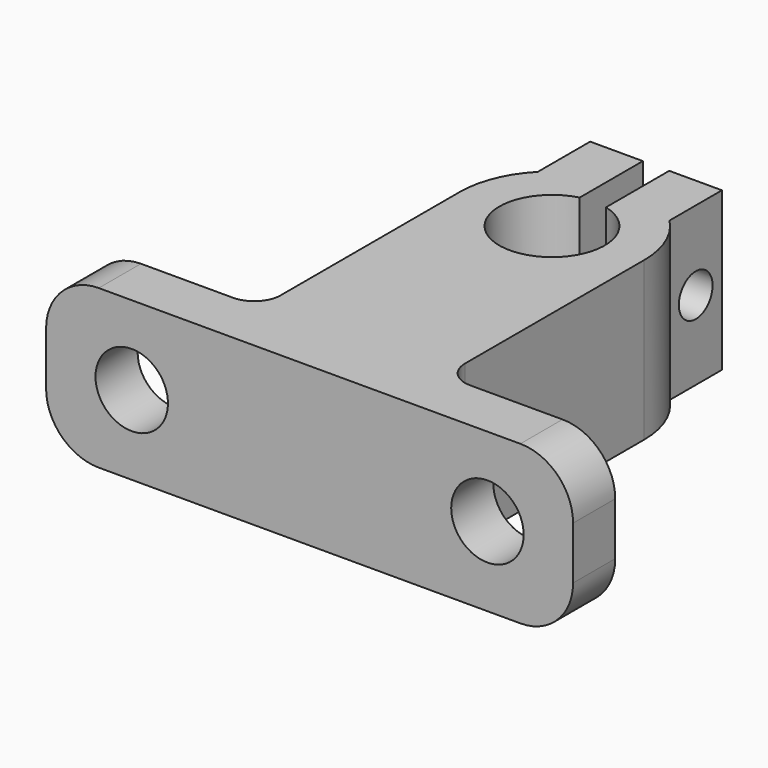
from build123d import *

# Parameters (mm, degrees)
F1_DEPTH = 12
F2_R     = 2.75
F3_DEPTH = 25
F4_R     = 4
F5_R     = 2
F6_R     = 1.6
F7_DEPTH = 25.001


with BuildPart() as f1:
    # F0 (on Top) → F1 (new body)
    with BuildSketch(Plane.XY):
        with BuildLine():
            ThreePointArc((1, 3.872983), (0, -4), (-1, 3.872983))
            Line((-1, 3.872983), (-1, 6.928203))
            Line((-1, 6.928203), (-1, 9.872983))
            Line((-1, 9.872983), (-5, 9.872983))
            Line((-5, 9.872983), (-5, 4.898979))
            ThreePointArc((-5, 4.898979), (-6.480741, 2.645751), (-7, 0))
            Line((-7, 0), (-7, -19))
            Line((-7, -19), (-20, -19))
            Line((-20, -19), (-20, -23))
            Line((-20, -23), (0, -23))
            Line((0, -23), (20, -23))
            Line((20, -23), (20, -19))
            Line((20, -19), (7, -19))
            Line((7, -19), (7, 0))
            ThreePointArc((7, 0), (6.480741, 2.645751), (5, 4.898979))
            Line((5, 4.898979), (5, 9.872983))
            Line((5, 9.872983), (1, 9.872983))
            Line((1, 9.872983), (1, 6.872983))
            Line((1, 6.872983), (1, 3.872983))
        make_face()
    extrude(amount=F1_DEPTH)

    # F2 (on face) → F3 (cut)
    with BuildSketch(Plane(origin=(0, -19, 0), x_dir=(-1, 0, 0), z_dir=(0, 1, 0))):
        with Locations((-13.5, 6)):
            Circle(F2_R)
        with Locations((13.5, 6)):
            Circle(F2_R)
    extrude(amount=-F3_DEPTH, mode=Mode.SUBTRACT)

    # F4
    f4_edges = [f1.edges().sort_by_distance(p)[0] for p in [
        (20, -21, 12),
        (20, -21, 0),
        (-20, -21, 0),
        (-20, -21, 12),
    ]]
    fillet(f4_edges, radius=F4_R)

    # F5
    f5_edges = [f1.edges().sort_by_distance(p)[0] for p in [
        (7, -19, 6),
        (-7, -19, 6),
    ]]
    fillet(f5_edges, radius=F5_R)

    # F6 (on face) → F7 (cut, through all)
    with BuildSketch(Plane.YZ.offset(5)):
        with Locations((7.385981, 6)):
            Circle(F6_R)
    extrude(amount=-F7_DEPTH, mode=Mode.SUBTRACT)


solid = f1.part
